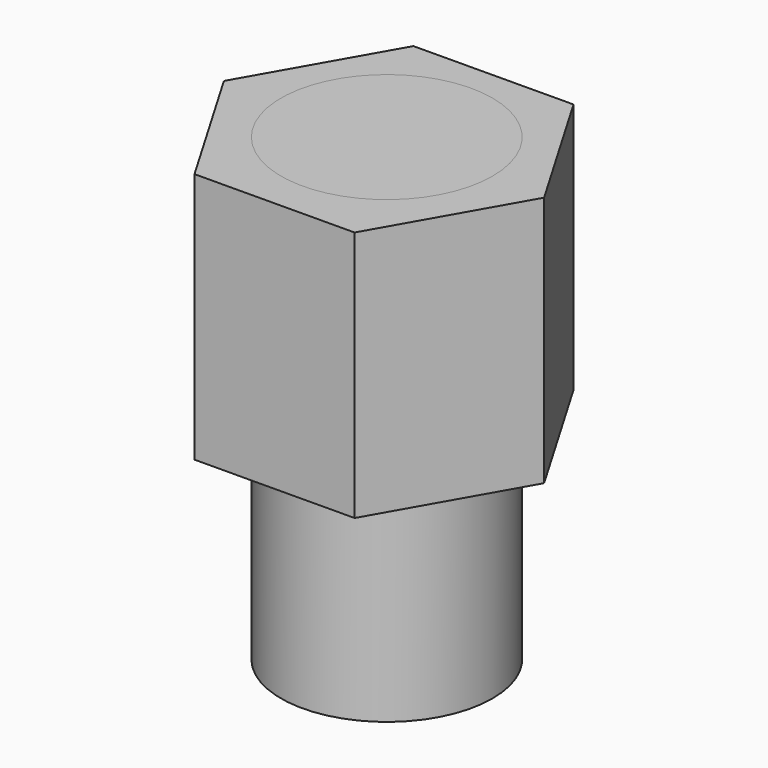
from build123d import *

# Parameters (mm, degrees)
F0_R     = 1.725
F1_DEPTH = 4.1
F2_DEPTH = 7.5


with BuildPart() as f1:
    # F0 (on Top) → F1 (new body)
    with BuildSketch(Plane.XY):
        Polygon((-1.47625, 1.991959), (-2.760657, -0.266424), (-1.447043, -2.507946), (1.150978, -2.491084), (2.435386, -0.2327), (1.121772, 2.008822), align=None)
        with Locations((-0.172661, -0.18046)):
            Circle(F0_R, mode=Mode.SUBTRACT)
    extrude(amount=-F1_DEPTH)


with BuildPart() as f2:
    # F0 (on Top) → F2 (new body)
    with BuildSketch(Plane.XY):
        with Locations((-0.172661, -0.18046)):
            Circle(F0_R)
    extrude(amount=-F2_DEPTH)


solid = Compound([f1.part, f2.part])
